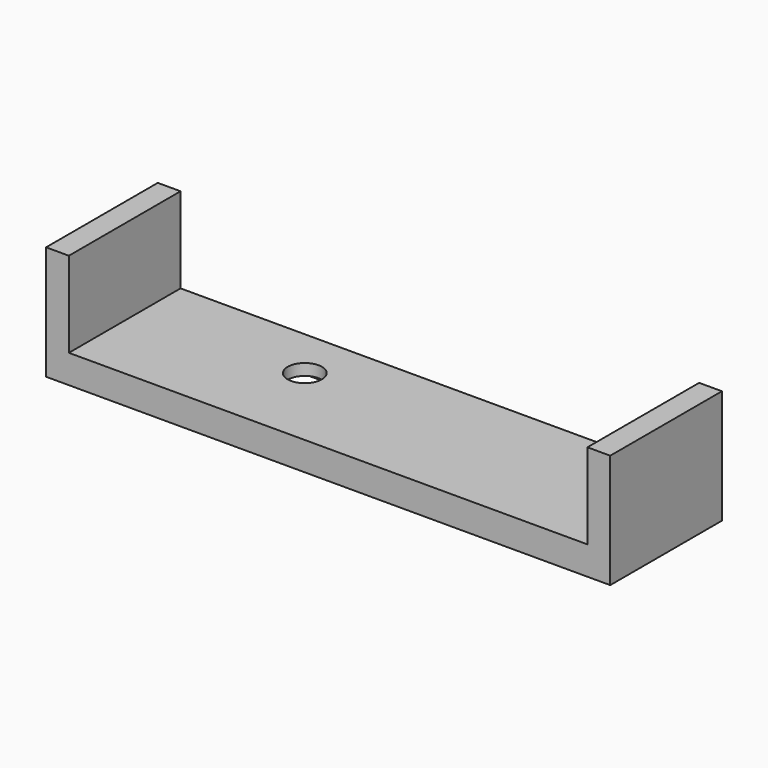
from build123d import *

# Parameters (mm, degrees)
F0_W     = 91
F0_H     = 24.5
F0_R     = 3
F1_DEPTH = 5
F0_W_2   = 4
F2_DEPTH = 20
F3_R     = 3
F4_DEPTH = 3


with BuildPart() as f1:
    # F0 (on Top) → F1 (new body)
    with BuildSketch(Plane.XY):
        with Locations((49.5, 12.25)):
            Rectangle(F0_W, F0_H)
        with Locations((33, 15.5)):
            Circle(F0_R, mode=Mode.SUBTRACT)
    extrude(amount=F1_DEPTH)

    # F0 (on Top) → F2 (join)
    with BuildSketch(Plane.XY):
        with Locations((2, 12.25)):
            Rectangle(F0_W_2, F0_H)
        with Locations((97, 12.25)):
            Rectangle(F0_W_2, F0_H)
    extrude(amount=F2_DEPTH)

    # F3 (on face) → F4 (cut)
    with BuildSketch(Plane.XY):
        with BuildLine():
            Line((50.05, 22.7), (15.95, 22.7))
            Line((15.95, 22.7), (15.95, 9.3))
            ThreePointArc((15.95, 9.3), (16.242893, 8.592893), (16.95, 8.3))
            Line((16.95, 8.3), (49.05, 8.3))
            ThreePointArc((49.05, 8.3), (49.757107, 8.592893), (50.05, 9.3))
            Line((50.05, 9.3), (50.05, 22.7))
        make_face()
        with Locations((33, 15.5)):
            Circle(F3_R, mode=Mode.SUBTRACT)
    extrude(amount=F4_DEPTH, mode=Mode.SUBTRACT)


solid = f1.part
